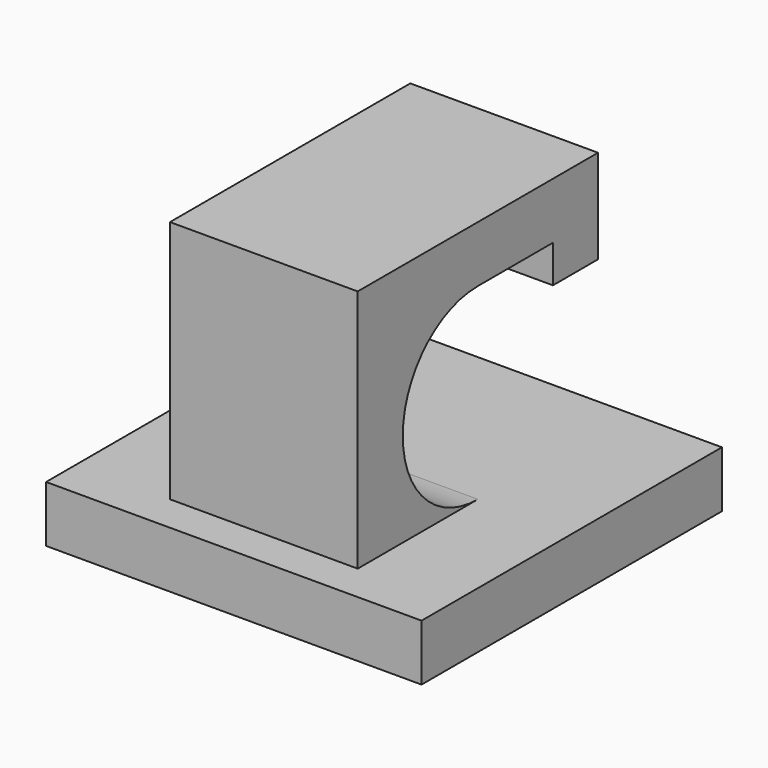
from build123d import *

# Parameters (mm, degrees)
SKETCH_W          = 20
SKETCH_H          = 20
PAD_DEPTH         = 3
PAD001_DEPTH      = 5
PAD001_DEPTH_BACK = 5


with BuildPart() as part:
    # Sketch → Pad (new body)
    with BuildSketch(Plane.XY):
        Rectangle(SKETCH_W, SKETCH_H)
    extrude(amount=PAD_DEPTH)

    # Sketch001 → Pad001 (join, two sides)
    with BuildSketch(Plane.YZ) as pad001_sk:
        with BuildLine():
            ThreePointArc((0, 13), (-5, 8), (0, 3))
            Line((0, 3), (8.878697, 3))
            Line((8.878697, 0), (8.878697, 3))
            Line((-8, 0), (8.878697, 0))
            Line((-8, 16), (-8, 0))
            Line((8, 16), (-8, 16))
            Line((8, 11), (8, 16))
            Line((5, 11), (8, 11))
            Line((5, 13), (5, 11))
            Line((5, 13), (0, 13))
        make_face()
    extrude(amount=PAD001_DEPTH)
    extrude(pad001_sk.sketch, amount=-PAD001_DEPTH_BACK)


solid = part.part
